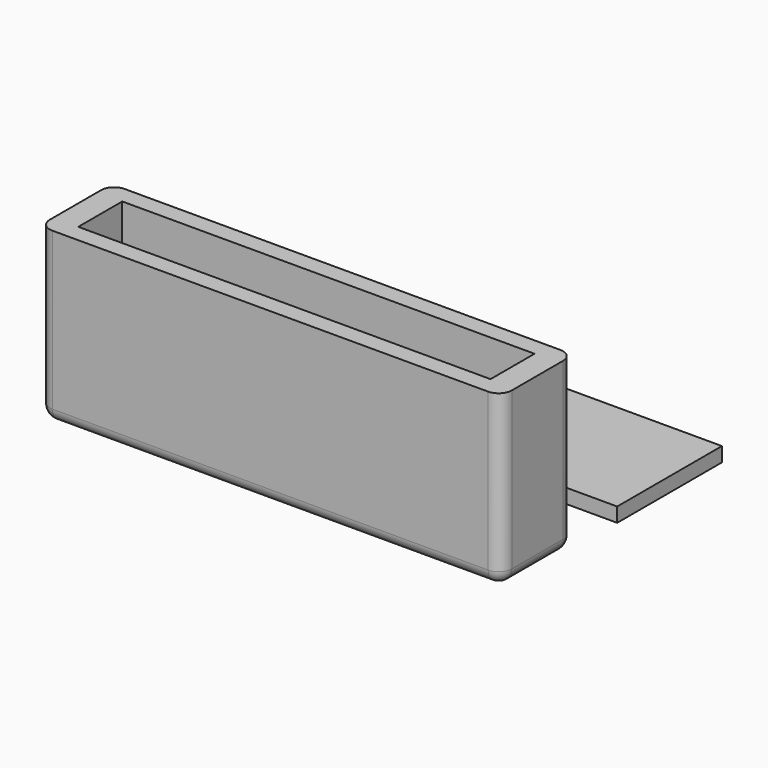
from build123d import *

# Parameters (mm, degrees)
F0_W     = 70.6
F0_H     = 13.8
F0_W_2   = 63
F0_H_2   = 8.4
F1_DEPTH = 26
F2_DEPTH = 1.5
F3_R     = 2
F4_R     = 2
F0_H_3   = 20
F5_DEPTH = 2.2


with BuildPart() as f1:
    # F0 (on Top) → F1 (new body)
    with BuildSketch(Plane.XY):
        Rectangle(F0_W, F0_H)
        Rectangle(F0_W_2, F0_H_2, mode=Mode.SUBTRACT)
    extrude(amount=F1_DEPTH)

    # F0 (on Top) → F2 (join)
    with BuildSketch(Plane.XY):
        Rectangle(F0_W_2, F0_H_2)
    extrude(amount=F2_DEPTH)

    # F3
    f3_edges = [f1.edges().sort_by_distance(p)[0] for p in [
        (-35.3, -6.9, 13),
        (35.3, -6.9, 13),
    ]]
    fillet(f3_edges, radius=F3_R)

    # F4
    f4_edges = [f1.edges().sort_by_distance(p)[0] for p in [
        (0, 6.9, 0),
        (0, -6.9, 0),
        (-35.3, 6.9, 13),
        (35.3, 6.9, 13),
    ]]
    fillet(f4_edges, radius=F4_R)


with BuildPart() as f5:
    # F0 (on Top) → F5 (new body)
    with BuildSketch(Plane.XY):
        with Locations((0, 25.242081)):
            Rectangle(F0_W, F0_H_3)
    extrude(amount=F5_DEPTH)


solid = Compound([f1.part, f5.part])
